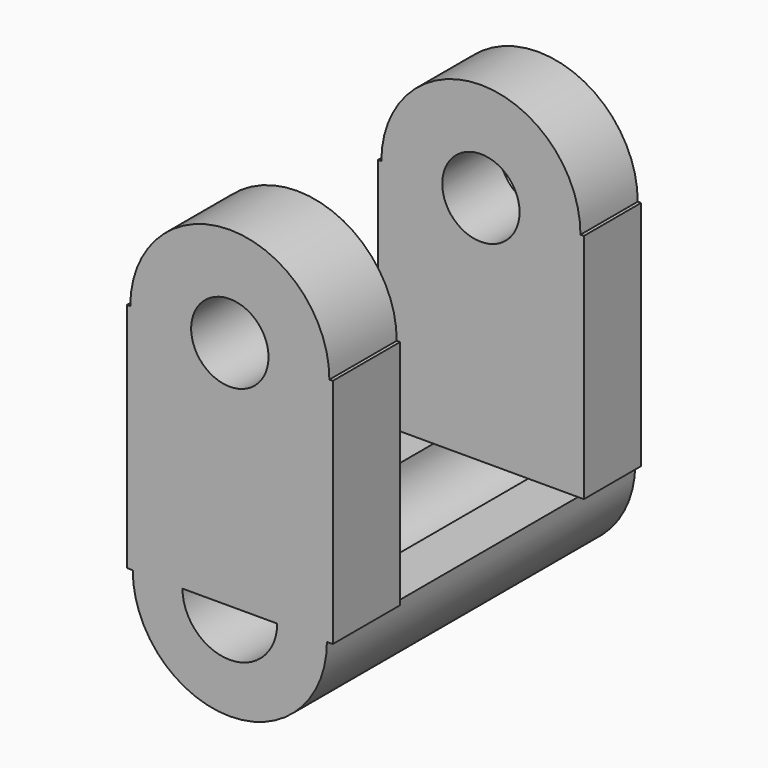
from build123d import *

# Parameters (mm, degrees)
F0_R     = 19.1968698124
F0_R_2   = 9.3617301333
F1_DEPTH = 38.1
F2_R     = 7.6435509614
F3_DEPTH = 38.1
F4_W     = 45.4035978764
F4_H     = 66.3013830781
F5_DEPTH = 114.3


with BuildPart() as f1:
    # F0 (on Front) → F1 (new body, symmetric)
    with BuildSketch(Plane.XZ):
        Circle(F0_R)
        Circle(F0_R_2, mode=Mode.SUBTRACT)
    extrude(amount=F1_DEPTH, both=True)

    # F2 (on Front) → F3 (join, symmetric)
    with BuildSketch(Plane.XZ):
        with BuildLine():
            Line((-20.3485637903, 45.8143912256), (-20.3485637903, 0))
            Line((-20.3485637903, 0), (20.3485637903, 0))
            Line((20.3485637903, 0), (20.3485637903, 45.8143912256))
            Line((20.3485637903, 45.8143912256), (19.6841994122, 45.8143912256))
            ThreePointArc((19.6841994122, 45.8143912256), (0, 65.4985906377), (-19.6841994122, 45.8143912256))
            Line((-19.6841994122, 45.8143912256), (-20.3485637903, 45.8143912256))
        make_face()
        with Locations((0, 45.8143912256)):
            Circle(F2_R, mode=Mode.SUBTRACT)
    extrude(amount=F3_DEPTH, both=True)

    # F4 (on Right) → F5 (cut, symmetric)
    with BuildSketch(Plane.YZ):
        with Locations((1.2458292767, 33.150691539)):
            Rectangle(F4_W, F4_H)
    extrude(amount=F5_DEPTH, both=True, mode=Mode.SUBTRACT)


solid = f1.part
